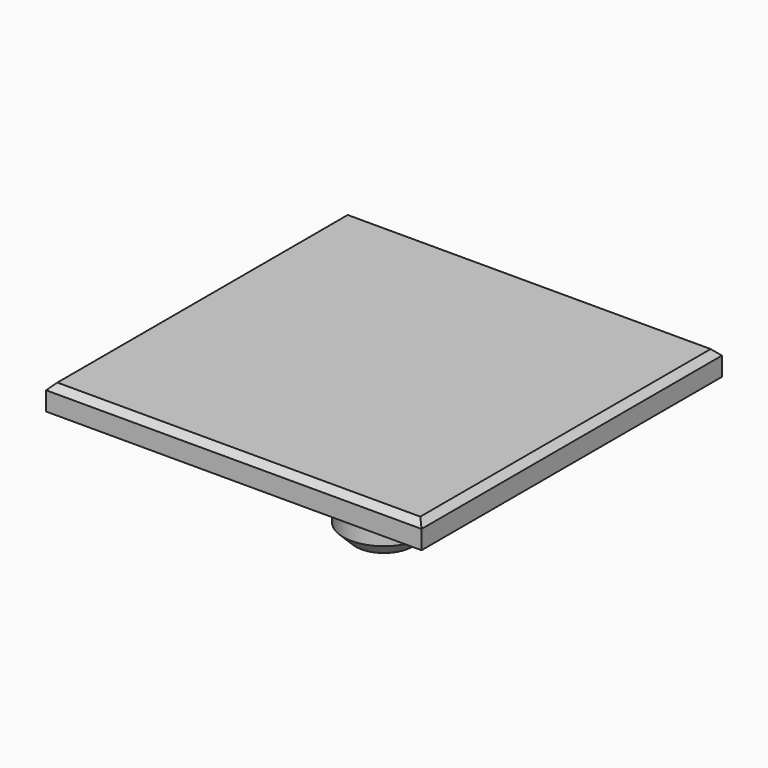
from build123d import *

# Parameters (mm, degrees)
F0_W     = 30
F0_H     = 30
F1_DEPTH = 2
F2_SIZE  = 0.5
F3_R     = 3.25
F4_DEPTH = 10
F5_SIZE  = 1


with BuildPart() as f1:
    # F0 (on Top) → F1 (new body)
    with BuildSketch(Plane.XY):
        Rectangle(F0_W, F0_H)
    extrude(amount=F1_DEPTH)

    # F2
    f2_edges = [f1.edges().sort_by_distance(p)[0] for p in [
        (-15, 0, 2),
        (0, 15, 2),
        (15, 0, 2),
        (0, -15, 2),
    ]]
    chamfer(f2_edges, length=F2_SIZE)

    # F3 (on Top) → F4 (join)
    with BuildSketch(Plane.XY):
        Circle(F3_R)
    extrude(amount=-F4_DEPTH)

    # F5
    f5_edges = [f1.edges().sort_by_distance(p)[0] for p in [
        (-3.25, 0, -10),
    ]]
    chamfer(f5_edges, length=F5_SIZE)


solid = f1.part
